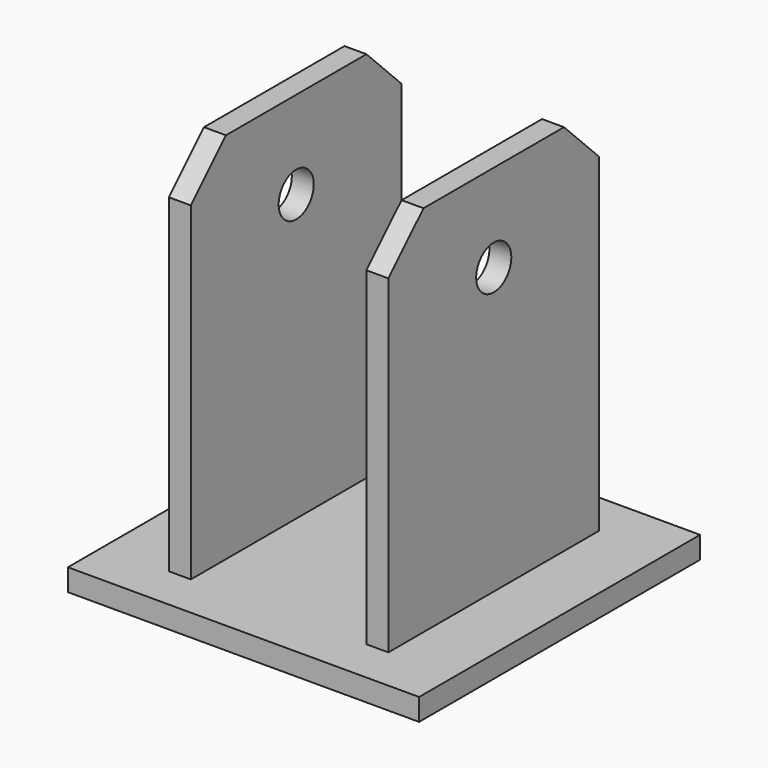
from build123d import *

# Parameters (mm, degrees)
F0_W     = 101.6
F0_H     = 101.6
F1_DEPTH = 6.35
F2_W     = 6.35
F2_H     = 76.2
F3_DEPTH = 107.95
F4_R     = 6.35
F5_DEPTH = 82.551
F6_SIZE  = 12.7


with BuildPart() as f1:
    # F0 (on Top) → F1 (new body)
    with BuildSketch(Plane.XY):
        with Locations((-21.764829, -22.656878)):
            Rectangle(F0_W, F0_H)
    extrude(amount=F1_DEPTH)

    # F2 (on face) → F3 (join)
    with BuildSketch(Plane.XY.offset(6.35)):
        with Locations((-50.339829, -22.656878)):
            Rectangle(F2_W, F2_H)
        with Locations((6.810171, -22.656878)):
            Rectangle(F2_W, F2_H)
    extrude(amount=F3_DEPTH)

    # F4 (on face) → F5 (cut, through all)
    with BuildSketch(Plane.YZ.offset(9.985171)):
        with Locations((-22.656878, 88.9)):
            Circle(F4_R)
    extrude(amount=-F5_DEPTH, mode=Mode.SUBTRACT)

    # F6
    f6_edges = [f1.edges().sort_by_distance(p)[0] for p in [
        (6.810171, -60.756878, 114.3),
        (6.810171, 15.443122, 114.3),
        (-50.339829, -60.756878, 114.3),
        (-50.339829, 15.443122, 114.3),
    ]]
    chamfer(f6_edges, length=F6_SIZE)


solid = f1.part
